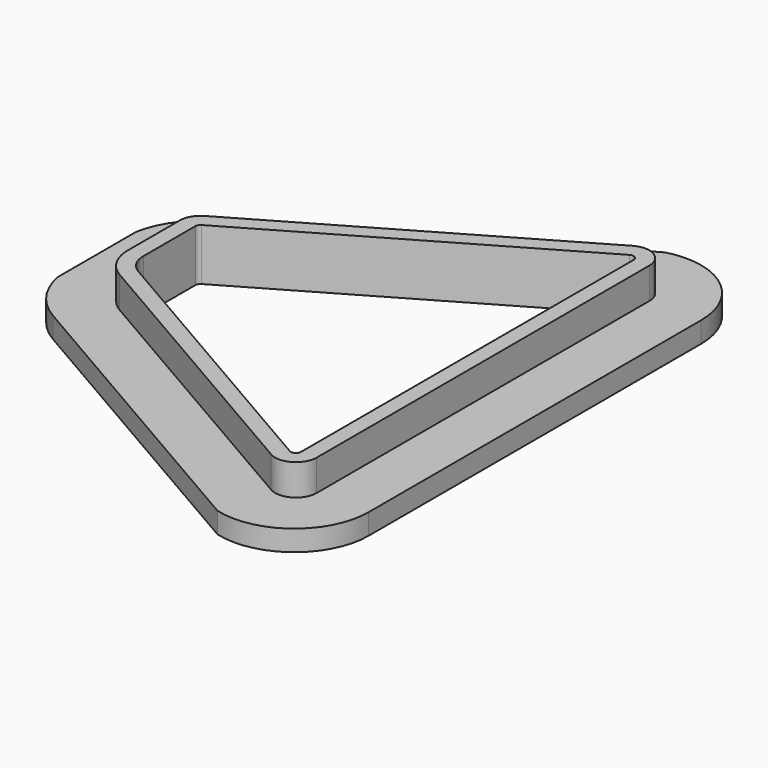
from build123d import *

# Parameters (mm, degrees)
F2_DEPTH = 3
F4_DEPTH = 2
F6_DEPTH = 5.001


with BuildPart() as f2:
    # F1 (on face) → F2 (new body)
    with BuildSketch(Plane.XY):
        with BuildLine():
            ThreePointArc((7.882726, -4.737868), (8.417427, -6.735794), (9.87858, -8.199573))
            Line((9.87858, -8.199573), (37.036658, -23.922675))
            ThreePointArc((37.036658, -23.922675), (39.037693, -23.924472), (40.03873, -22.191823))
            Line((40.03873, -22.191823), (40.03873, -2.183715))
            Line((40.03873, -2.183715), (40.03873, 17.824393))
            ThreePointArc((40.03873, 17.824393), (39.037693, 19.557042), (37.036658, 19.555245))
            Line((37.036658, 19.555245), (8.880653, 3.254395))
            ThreePointArc((8.880653, 3.254395), (8.150077, 2.522506), (7.882726, 1.523543))
            Line((7.882726, 1.523543), (7.882726, -2.183715))
            Line((7.882726, -2.183715), (7.882726, -4.737868))
        make_face()
    extrude(amount=F2_DEPTH)

    # F3 (on face) → F4 (join)
    with BuildSketch(Plane.XY):
        with BuildLine():
            Line((6.51216, -12.028092), (36.024483, -29.11418))
            ThreePointArc((36.024483, -29.11418), (42.238428, -27.868959), (45.03873, -22.183715))
            Line((45.03873, -22.183715), (45.03873, -2.183715))
            Line((45.03873, -2.183715), (45.03873, 17.816285))
            ThreePointArc((45.03873, 17.816285), (42.238428, 23.501529), (36.024483, 24.74675))
            Line((36.024483, 24.74675), (6.51216, 7.660662))
            ThreePointArc((6.51216, 7.660662), (4.133485, 5.486051), (2.882726, 2.515759))
            Line((2.882726, 2.515759), (2.882726, -2.183715))
            Line((2.882726, -2.183715), (2.882726, -6.883189))
            ThreePointArc((2.882726, -6.883189), (4.133485, -9.853481), (6.51216, -12.028092))
        make_face()
    extrude(amount=-F4_DEPTH)

    # F5 (on face) → F6 (cut, through all)
    with BuildSketch(Plane.XY.offset(3)):
        with BuildLine():
            ThreePointArc((9.632207, 1.956256), (9.449563, 1.773284), (9.382726, 1.523543))
            Line((9.382726, 1.523543), (9.382726, -4.737868))
            ThreePointArc((9.382726, -4.737868), (9.716914, -5.986572), (10.630135, -6.901433))
            Line((10.630135, -6.901433), (37.788212, -22.624536))
            ThreePointArc((37.788212, -22.624536), (38.288471, -22.624985), (38.53873, -22.191823))
            Line((38.53873, -22.191823), (38.53873, 17.824393))
            ThreePointArc((38.53873, 17.824393), (38.288471, 18.257555), (37.788212, 18.257106))
            Line((37.788212, 18.257106), (9.632207, 1.956256))
        make_face()
    extrude(amount=-F6_DEPTH, mode=Mode.SUBTRACT)


solid = f2.part
